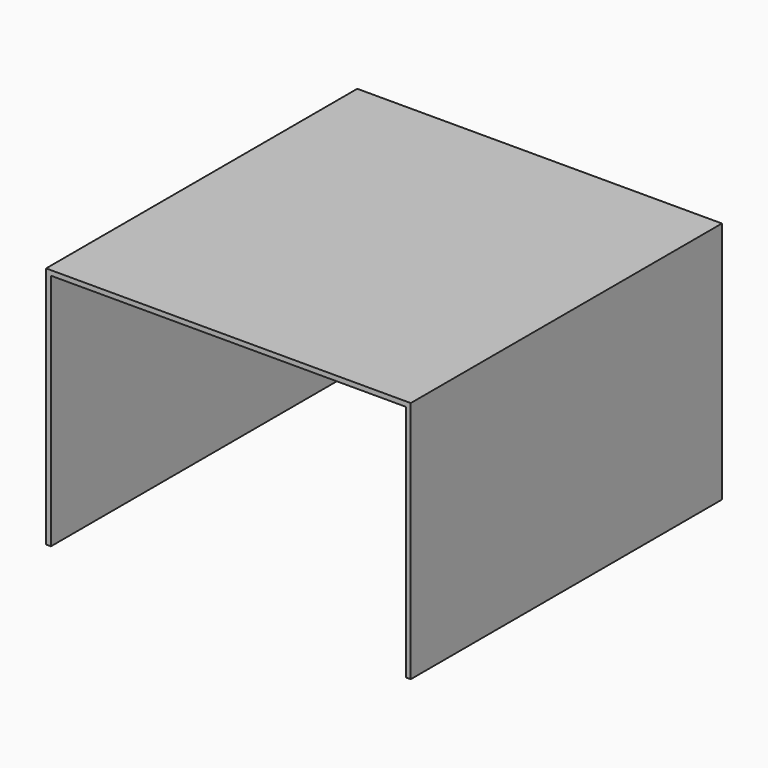
from build123d import *

# Parameters (mm, degrees)
F0_W     = 0.254
F0_H     = 0.254
F0_W_2   = 18.542
F0_H_2   = 12.192
F1_DEPTH = 20.32


with BuildPart() as f1:
    # F0 (on Front) → F1 (new body)
    with BuildSketch(Plane.XZ):
        with Locations((18.923, 0.127)):
            Rectangle(F0_W, F0_H)
        with Locations((0.127, 12.573)):
            Rectangle(F0_W, F0_H)
        with Locations((0.127, 0.127)):
            Rectangle(F0_W, F0_H)
        Polygon((18.796, 12.446), (18.796, 0.254), (19.05, 0.254), (19.05, 12.7), (18.796, 12.7), align=None)
        with Locations((9.525, 12.573)):
            Rectangle(F0_W_2, F0_H)
        with Locations((0.127, 6.35)):
            Rectangle(F0_W, F0_H_2)
    extrude(amount=F1_DEPTH)


solid = f1.part
